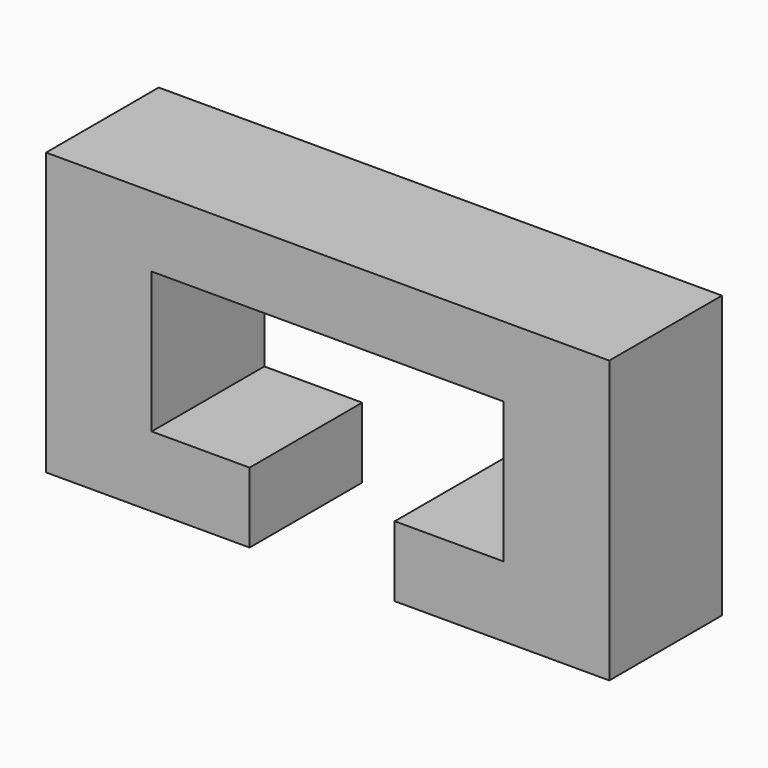
from build123d import *

# Parameters (mm, degrees)
F1_DEPTH = 2
F2_DEPTH = 25


with BuildPart() as f1:
    # F0 (on Front) → F1 (new body)
    with BuildSketch(Plane.XZ):
        Polygon((0, 4), (0, 0), (2.890676, 0), (2.890676, 1), (1.5, 1), (1.5, 3), (6.5, 3), (6.5, 1), (4.952536, 1), (4.952536, 0), (8, 0), (8, 4), align=None)
        Polygon((2.890676, 1), (2.890676, 0), (4.952536, 0), (4.952536, 1), (6.5, 1), (6.5, 3), (1.5, 3), (1.5, 1), align=None)
    extrude(amount=-F1_DEPTH)

    # F0 (on Front) → F2 (cut)
    with BuildSketch(Plane.XZ):
        Polygon((2.890676, 1), (2.890676, 0), (4.952536, 0), (4.952536, 1), (6.5, 1), (6.5, 3), (1.5, 3), (1.5, 1), align=None)
    extrude(amount=-F2_DEPTH, mode=Mode.SUBTRACT)


solid = f1.part
